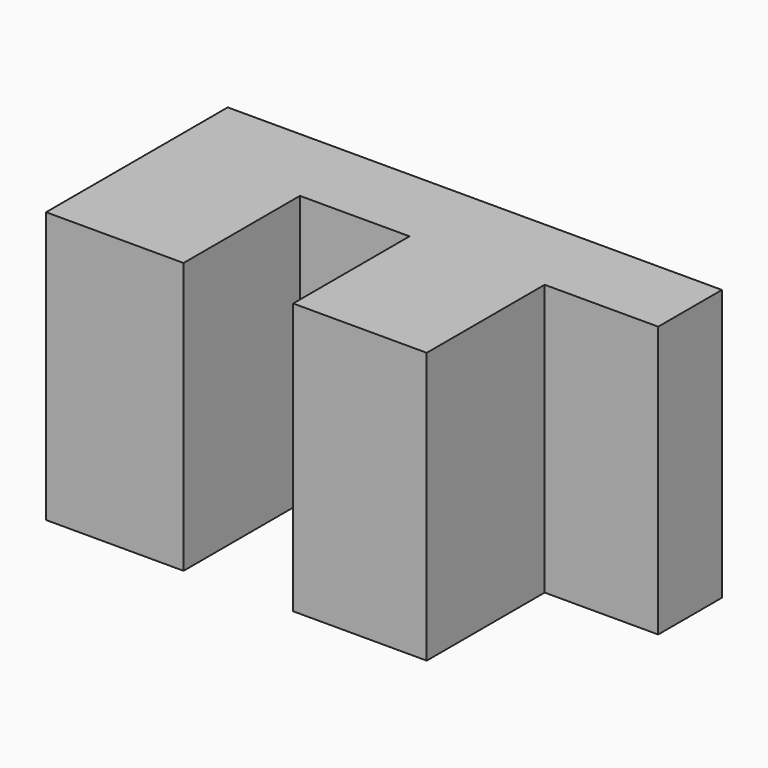
from build123d import *

# Parameters (mm, degrees)
F0_W     = 108.822718
F0_H     = 59.676976
F1_DEPTH = 50
F2_W     = 32.45962
F2_H     = 59.676976
F3_DEPTH = 25
F4_W     = 24.134072
F4_H     = 32.020826
F5_DEPTH = 25
F6_DEPTH = 60


with BuildPart() as f1:
    # F0 (on Front) → F1 (new body)
    with BuildSketch(Plane.XZ):
        Rectangle(F0_W, F0_H)
    extrude(amount=-F1_DEPTH)

    # F2 (on face) → F3 (cut)
    with BuildSketch(Plane.YZ.offset(54.411359)):
        with Locations((16.22981, 0)):
            Rectangle(F2_W, F2_H)
    extrude(amount=-F3_DEPTH, mode=Mode.SUBTRACT)

    # F4 (on face) → F5 (cut)
    with BuildSketch(Plane.XY.offset(29.838488)):
        with Locations((-12.067036, 16.010413)):
            Rectangle(F4_W, F4_H)
    extrude(amount=F5_DEPTH, mode=Mode.SUBTRACT)

    # F4 (on face) → F6 (cut)
    with BuildSketch(Plane.XY.offset(29.838488)):
        with Locations((-12.067036, 16.010413)):
            Rectangle(F4_W, F4_H)
    extrude(amount=-F6_DEPTH, mode=Mode.SUBTRACT)


solid = f1.part
